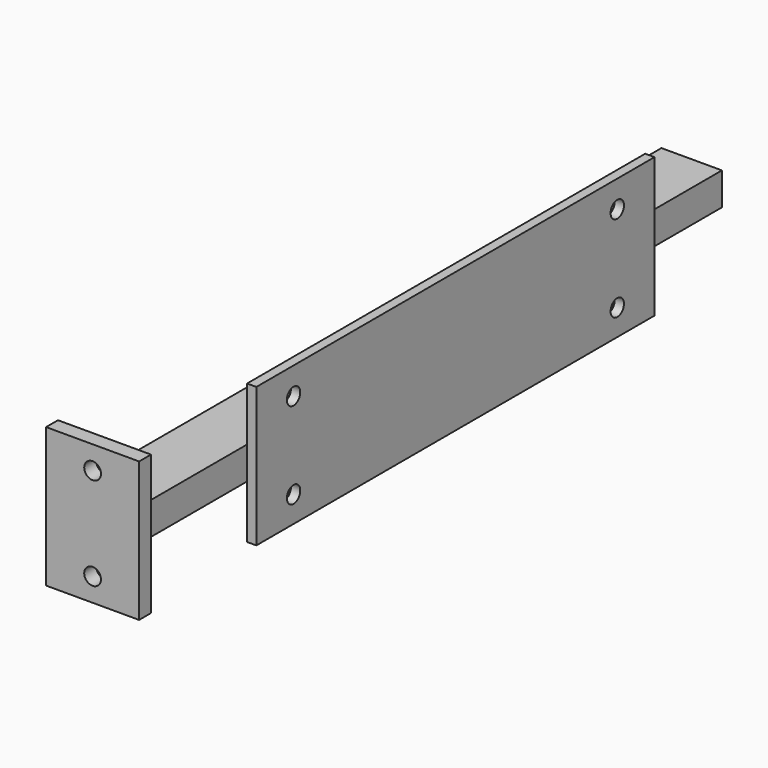
from build123d import *

# Parameters (mm, degrees)
F0_W      = 65
F0_H      = 35
F0_W_2    = 57
F0_H_2    = 27
F1_DEPTH  = 784
F2_W      = 100
F2_H      = 150
F3_DEPTH  = 16
F5_D      = 18
F6_W      = 535
F6_H      = 150
F7_DEPTH  = 10
F9_D      = 18
F10_W     = 65
F10_H     = 35
F11_DEPTH = 5


with BuildPart() as f1:
    # F0 (on Front) → F1 (new body)
    with BuildSketch(Plane.XZ):
        Rectangle(F0_W, F0_H)
        Rectangle(F0_W_2, F0_H_2, mode=Mode.SUBTRACT)
    extrude(amount=F1_DEPTH)

    # F2 (on face) → F3 (join)
    with BuildSketch(Plane.XZ.offset(784)):
        Rectangle(F2_W, F2_H)
    extrude(amount=F3_DEPTH)

    # F5 (through all)
    with Locations(Plane.XZ.offset(800)):
        with Locations((0, 50), (0, -50)):
            Hole(F5_D / 2)

    # F6 (on face) → F7 (join)
    with BuildSketch(Plane.YZ.offset(32.5)):
        with Locations((-365.592288, 0.218023)):
            Rectangle(F6_W, F6_H)
    extrude(amount=F7_DEPTH)

    # F9 (through all)
    with Locations(Plane.YZ.offset(42.5)):
        with Locations((-148.092288, 46.218023), (-148.092288, -46.781977), (-583.092288, -46.781977), (-583.092288, 46.218023)):
            Hole(F9_D / 2)

    # F10 (on face) → F11 (join)
    with BuildSketch(Plane(origin=(0, 0, 0), x_dir=(-1, 0, 0), z_dir=(0, 1, 0))):
        Rectangle(F10_W, F10_H)
    extrude(amount=F11_DEPTH)


solid = f1.part
